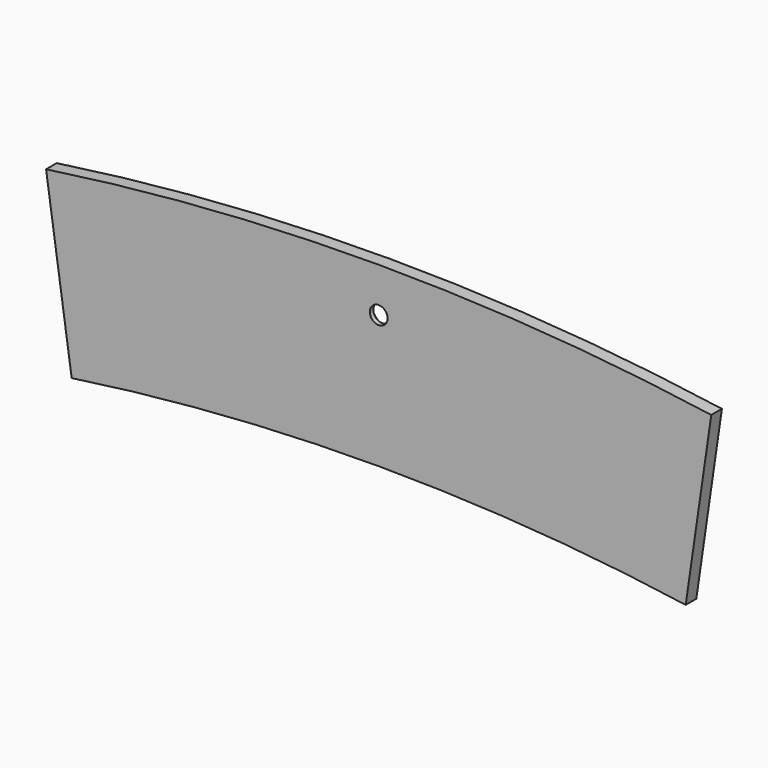
from build123d import *

# Parameters (mm, degrees)
F0_R           = 2
F1_DEPTH       = 3
F2_D           = 4
F2_CSINK_D     = 8
F2_CSINK_ANGLE = 90


with BuildPart() as f1:
    # F0 (on Front) → F1 (new body)
    with BuildSketch(Plane.XZ):
        with BuildLine():
            ThreePointArc((-69.2307692308, 474.9811581439), (0, 480), (69.2307692308, 474.9811581439))
            Line((69.2307692308, 474.9811581439), (75, 514.5629213226))
            ThreePointArc((75, 514.5629213226), (0, 520), (-75, 514.5629213226))
            Line((-75, 514.5629213226), (-69.2307692308, 474.9811581439))
        make_face()
        with Locations((-45, 508.0108266563)):
            Circle(F0_R, mode=Mode.SUBTRACT)
        with Locations((45, 508.0108266563)):
            Circle(F0_R, mode=Mode.SUBTRACT)
        with Locations((-45, 508.0108266563)):
            Circle(F0_R)
        with Locations((45, 508.0108266563)):
            Circle(F0_R)
    extrude(amount=F1_DEPTH)

    # F2 (through all)
    with Locations(Plane(origin=(0, 0, 0), x_dir=(1, 0, 0), z_dir=(0, 1, 0))):
        with Locations((0, -510)):
            CounterSinkHole(F2_D / 2, F2_CSINK_D / 2, counter_sink_angle=F2_CSINK_ANGLE)


solid = f1.part
